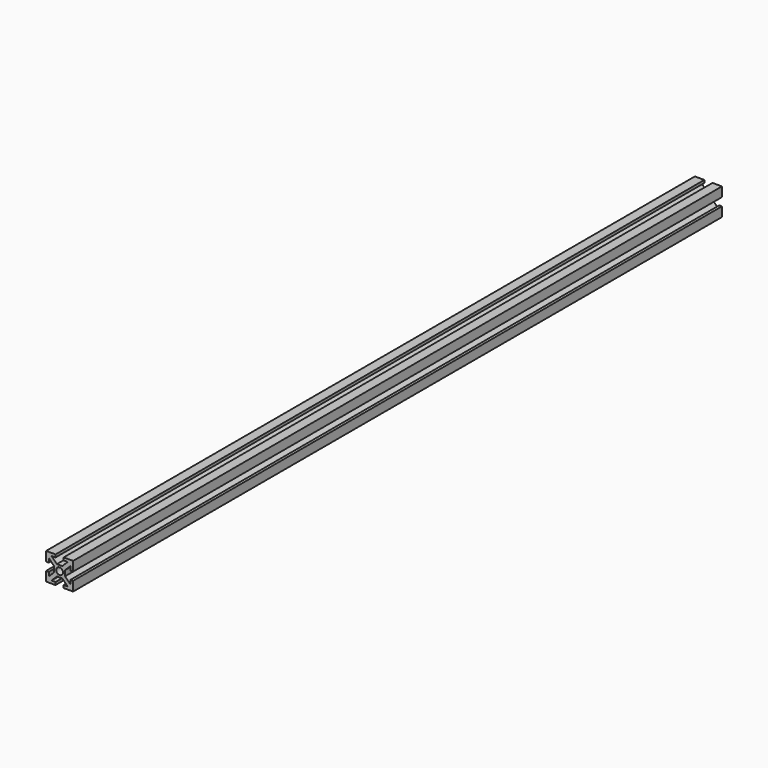
from build123d import *

# Parameters (mm, degrees)
F0_R     = 1.25
F1_DEPTH = 300


with BuildPart() as f1:
    # F0 (on Front) → F1 (new body)
    with BuildSketch(Plane.XZ):
        Polygon((-3.5, 0), (0, 0), (0, 3.5), (-1, 3.5), (-1, 2), (-3, 4), (-3, 5), (-3, 6), (-1, 8), (-1, 6.5), (0, 6.5), (0, 10), (-3.5, 10), (-3.5, 9), (-2, 9), (-4, 7), (-5, 7), (-6, 7), (-8, 9), (-6.5, 9), (-6.5, 10), (-10, 10), (-10, 6.5), (-9, 6.5), (-9, 8), (-7, 6), (-7, 5), (-7, 4), (-9, 2), (-9, 3.5), (-10, 3.5), (-10, 0), (-6.5, 0), (-6.5, 1), (-8, 1), (-6, 3), (-5, 3), (-4, 3), (-2, 1), (-3.5, 1), align=None)
        with Locations((-5, 5)):
            Circle(F0_R, mode=Mode.SUBTRACT)
    extrude(amount=F1_DEPTH)


solid = f1.part
